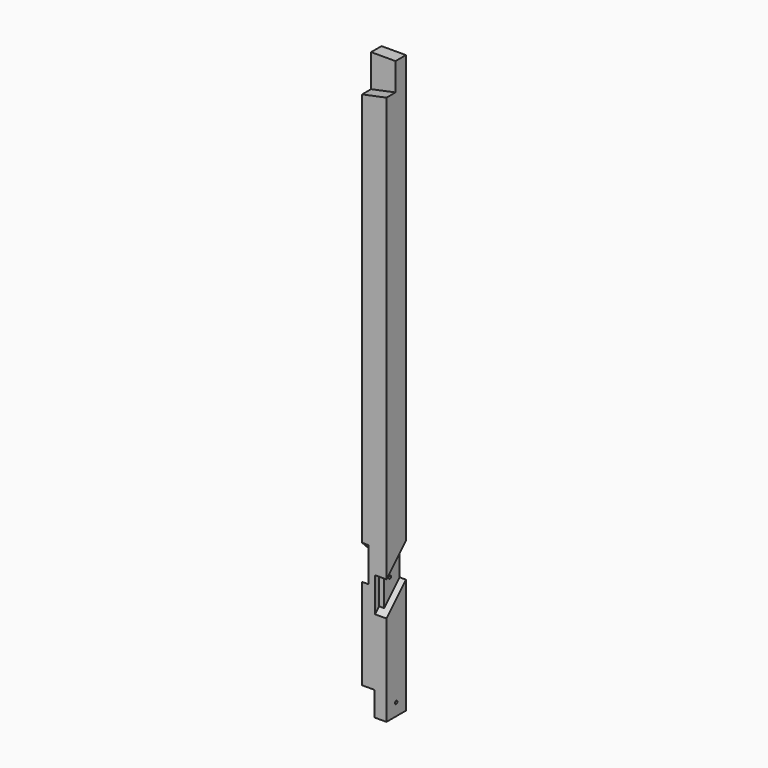
from build123d import *

# Parameters (mm, degrees)
F0_W      = 97
F0_H      = 97
F1_DEPTH  = 1150
F2_W      = 97
F2_H      = 97
F3_DEPTH  = 48.5
F5_DEPTH  = 45
F7_DEPTH  = 25
F9_DEPTH  = 25
F11_DEPTH = 20
F12_R     = 6
F13_DEPTH = 47
F14_R     = 6
F15_DEPTH = 48.5
F17_DEPTH = 45


with BuildPart() as f1:
    # F0 (on Top) → F1 (new body, symmetric)
    with BuildSketch(Plane.XY):
        Rectangle(F0_W, F0_H)
    extrude(amount=F1_DEPTH, both=True)

    # F2 (on face) → F3 (cut)
    with BuildSketch(Plane(origin=(-48.5, 0, 0), x_dir=(0, -1, 0), z_dir=(-1, 0, 0))):
        with Locations((0, -1101.5)):
            Rectangle(F2_W, F2_H)
    extrude(amount=-F3_DEPTH, mode=Mode.SUBTRACT)

    # F4 (on face) → F5 (cut)
    with BuildSketch(Plane.YZ.offset(48.5)):
        Polygon((-28.5, -650), (-48.5, -650), (-48.5, -787.178716), (-28.5, -767.178716), align=None)
    extrude(amount=-F5_DEPTH, mode=Mode.SUBTRACT)

    # F6 (on face) → F7 (cut)
    with BuildSketch(Plane(origin=(-48.5, 0, 0), x_dir=(0, -1, 0), z_dir=(-1, 0, 0))):
        Polygon((-48.5, -650), (-48.5, -787.178716), (48.5, -690.178716), (48.5, -553), align=None)
    extrude(amount=-F7_DEPTH, mode=Mode.SUBTRACT)

    # F8 (on face) → F9 (cut)
    with BuildSketch(Plane.YZ.offset(48.5)):
        Polygon((48.5, -690.178716), (48.5, -553), (-48.5, -650), (-48.5, -787.178716), align=None)
    extrude(amount=-F9_DEPTH, mode=Mode.SUBTRACT)

    # F10 (on face) → F11 (cut)
    with BuildSketch(Plane(origin=(-23.5, 0, 0), x_dir=(0, -1, 0), z_dir=(-1, 0, 0))):
        Polygon((-48.5, -650), (-48.5, -787.178716), (-28.5, -767.178716), (-28.5, -650), align=None)
    extrude(amount=-F11_DEPTH, mode=Mode.SUBTRACT)

    # F12 (on face) → F13 (cut, through all)
    with BuildSketch(Plane.YZ.offset(23.5)):
        with Locations((0, -670.089358)):
            Circle(F12_R)
    extrude(amount=-F13_DEPTH, mode=Mode.SUBTRACT)

    # F14 (on face) → F15 (cut, through all)
    with BuildSketch(Plane(origin=(0, 0, 0), x_dir=(0, -1, 0), z_dir=(-1, 0, 0))):
        with Locations((0, -1101.5)):
            Circle(F14_R)
    extrude(amount=-F15_DEPTH, mode=Mode.SUBTRACT)

    # F16 (on face) → F17 (cut)
    with BuildSketch(Plane.XZ.offset(48.5)):
        Polygon((48.5, 1150), (-48.5, 1150), (-48.5, 1020), (48.5, 1040), align=None)
    extrude(amount=-F17_DEPTH, mode=Mode.SUBTRACT)


solid = f1.part
